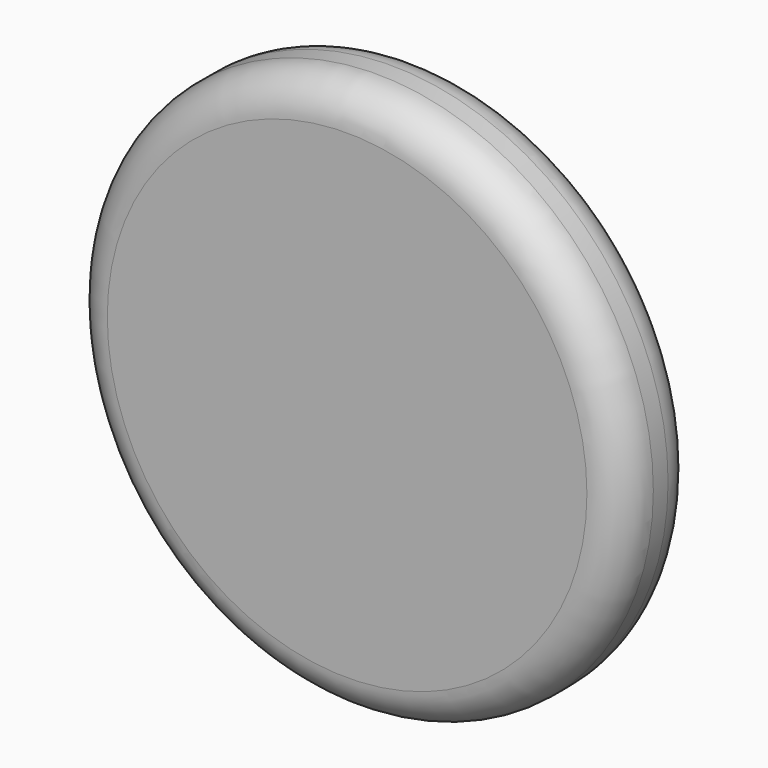
from build123d import *

# Parameters (mm, degrees)
F0_R     = 38.1
F1_DEPTH = 12.7
F2_R     = 31.75
F3_DEPTH = 11.43
F4_R     = 5.08


with BuildPart() as f1:
    # F0 (on Front) → F1 (new body)
    with BuildSketch(Plane.XZ):
        Circle(F0_R)
    extrude(amount=F1_DEPTH)

    # F2 (on face) → F3 (cut)
    with BuildSketch(Plane(origin=(0, 0, 0), x_dir=(-1, 0, 0), z_dir=(0, 1, 0))):
        Circle(F2_R)
    extrude(amount=-F3_DEPTH, mode=Mode.SUBTRACT)

    # F4
    f4_edges = [f1.edges().sort_by_distance(p)[0] for p in [
        (38.1, -6.35, 0),
        (-38.1, 0, 0),
        (-38.1, -12.7, 0),
    ]]
    fillet(f4_edges, radius=F4_R)


solid = f1.part
